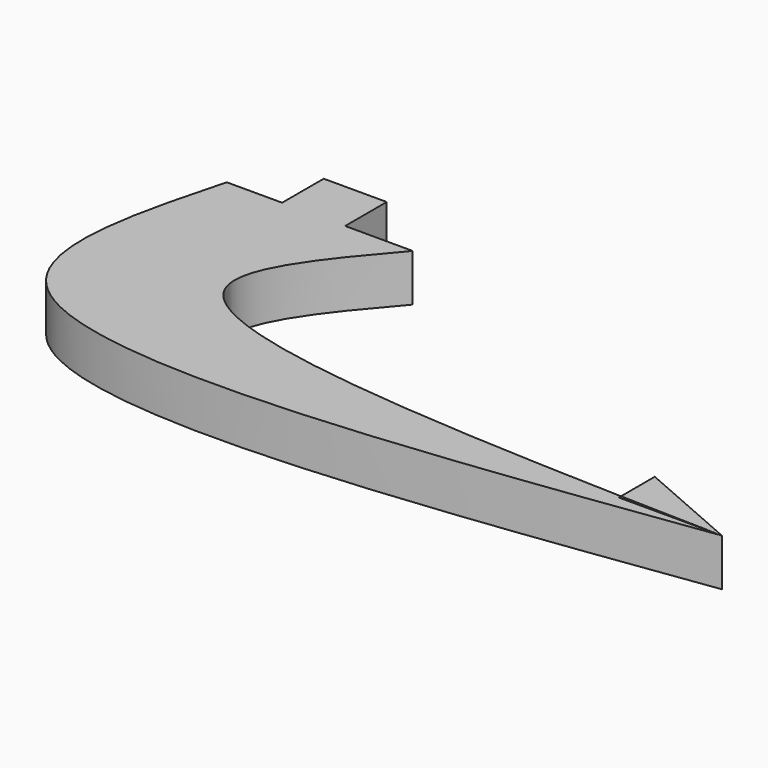
from build123d import *

# Parameters (mm, degrees)
F1_DEPTH = 5.334


with BuildPart() as f1:
    # F0 (on Top) → F1 (new body)
    with BuildSketch(Plane.XY):
        Polygon((0, -2.9337), (2.8702, -2.9337), (2.8702, 2.9337), (-4.2418, 2.9337), (-4.2418, -2.9337), (-4.1402, -2.9337), (-2.8702, -2.9337), align=None)
        with BuildLine():
            Line((3.81, -2.9337), (2.8702, -2.9337))
            Line((2.8702, -2.9337), (0, -2.9337))
            Line((0, -2.9337), (-2.8702, -2.9337))
            Line((-2.8702, -2.9337), (-4.1402, -2.9337))
            Line((-4.1402, -2.9337), (-4.2418, -2.9337))
            Line((-4.2418, -2.9337), (-10.4902, -2.9337))
            Line((-10.4902, -2.9337), (-10.4902, -28.3337))
            Line((-10.4902, -28.3337), (54.0700577348, -28.3337))
            Line((54.0700577348, -28.3337), (54.0700577348, -28.0234226557))
            add(Edge.make_bspline(
                [(10.4902, -2.9337), (5.2908571916, -8.9951183558), (-8.3897948845, -24.9440870369), (28.5921028698, -27.2684726067), (54.0700577348, -28.0234226557)],
                knots=[0, 0, 0, 0, 0.3475645102, 0.9145211834, 0.9145211834, 0.9145211834, 0.9145211834], degree=3))
            Line((10.4902, -2.9337), (3.81, -2.9337))
        make_face()
        with BuildLine():
            Line((-10.4902, -28.3337), (-10.4902, -2.9337))
            add(Edge.make_bspline(
                [(-10.4902, -2.9337), (-13.1740257906, -12.9498742094), (-15.8578515813, -22.9660484187), (-10.4902, -28.3337)],
                knots=[0, 0, 0, 0, 0.3660254038, 0.3660254038, 0.3660254038, 0.3660254038], degree=3))
        make_face()
        with BuildLine():
            add(Edge.make_bspline(
                [(-10.4902, -28.3337), (-1.1931547439, -37.6307452561), (32.2583226281, -32.9822226281), (65.7098, -28.3337)],
                knots=[0.3660254038, 0.3660254038, 0.3660254038, 0.3660254038, 1, 1, 1, 1], degree=3))
            Line((65.7098, -28.3337), (54.0700577348, -28.3337))
            Line((54.0700577348, -28.3337), (-10.4902, -28.3337))
        make_face()
    extrude(amount=F1_DEPTH)


with BuildPart() as f1b:
    # F0 (on Top) → F1, piece 2 (new body)
    with BuildSketch(Plane.XY):
        with BuildLine():
            Line((54.0700577348, -23.2537), (54.0700577348, -28.0234226557))
            add(Edge.make_bspline(
                [(54.0700577348, -28.0234226557), (57.9113132189, -28.1372448221), (61.8105566094, -28.235472411), (65.7098, -28.3337)],
                knots=[0.9145211834, 0.9145211834, 0.9145211834, 0.9145211834, 1, 1, 1, 1], degree=3))
            Line((65.7098, -28.3337), (54.0700577348, -23.2537))
        make_face()
    extrude(amount=F1_DEPTH)


solid = Compound([f1.part, f1b.part])
